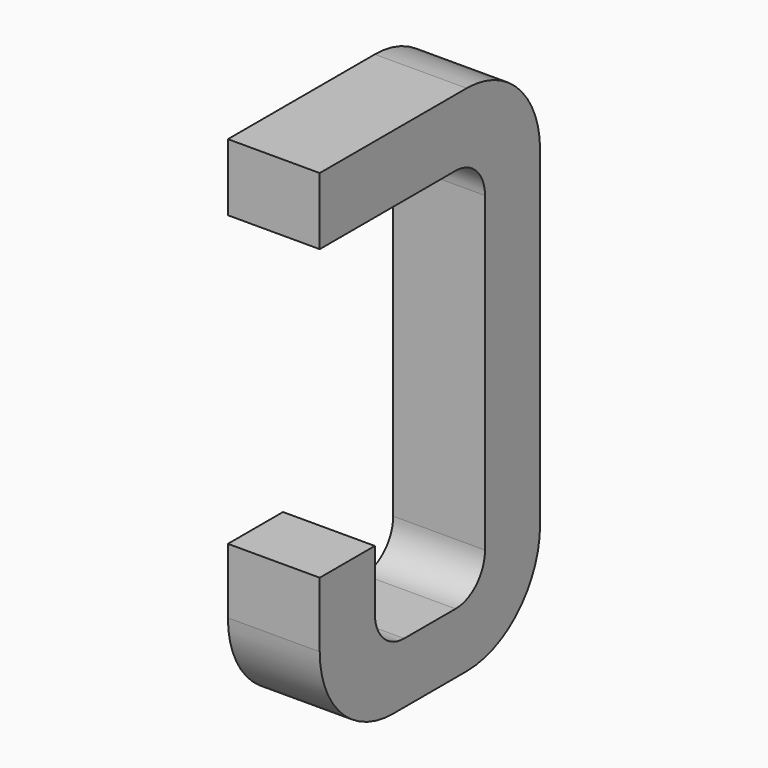
from build123d import *

# Parameters (mm, degrees)
BOX103_W     = 0.5
BOX103_H     = 1.5
BOX103_DEPTH = 2.795
FILLET289_R  = 0.5
FILLET284_R  = 0.5
FILLET288_R  = 0.5
BOX108_W     = 0.75
BOX108_H     = 2.1
BOX108_DEPTH = 1
FILLET291_R  = 0.2
FILLET292_R  = 0.2
FILLET286_R  = 0.2
FILLET290_R  = 0.2
BOX110_W     = 1
BOX110_H     = 1.575
BOX110_DEPTH = 3


with BuildPart() as part:
    # Box103 → Box103 (join)
    with BuildSketch(Plane(origin=(-0.25, 11.125, 0), x_dir=(1, 0, 0), z_dir=(0, 0, 1))):
        with Locations((0.25, 0.75)):
            Rectangle(BOX103_W, BOX103_H)
    extrude(amount=BOX103_DEPTH)

    # Fillet289
    fillet289_edges = [part.edges().sort_by_distance(p)[0] for p in [
        (0, 12.625, 0),
    ]]
    fillet(fillet289_edges, radius=FILLET289_R)

    # Fillet284
    fillet284_edges = [part.edges().sort_by_distance(p)[0] for p in [
        (0, 12.625, 2.795),
    ]]
    fillet(fillet284_edges, radius=FILLET284_R)

    # Fillet288
    fillet288_edges = [part.edges().sort_by_distance(p)[0] for p in [
        (0, 11.125, 0),
    ]]
    fillet(fillet288_edges, radius=FILLET288_R)

    # Box108 → Box108 (cut)
    with BuildSketch(Plane(origin=(-0.5, 11.5, 0.33), x_dir=(0, 1, 0), z_dir=(1, 0, 0))):
        with Locations((0.375, 1.05)):
            Rectangle(BOX108_W, BOX108_H)
    extrude(amount=BOX108_DEPTH, mode=Mode.SUBTRACT)

    # Fillet291
    fillet291_edges = [part.edges().sort_by_distance(p)[0] for p in [
        (0, 11.5, 0.33),
    ]]
    fillet(fillet291_edges, radius=FILLET291_R)

    # Fillet292
    fillet292_edges = [part.edges().sort_by_distance(p)[0] for p in [
        (0, 12.25, 0.33),
    ]]
    fillet(fillet292_edges, radius=FILLET292_R)

    # Fillet286
    fillet286_edges = [part.edges().sort_by_distance(p)[0] for p in [
        (0, 11.5, 2.43),
    ]]
    fillet(fillet286_edges, radius=FILLET286_R)

    # Fillet290
    fillet290_edges = [part.edges().sort_by_distance(p)[0] for p in [
        (0, 12.25, 2.43),
    ]]
    fillet(fillet290_edges, radius=FILLET290_R)

    # Box110 → Box110 (cut)
    with BuildSketch(Plane(origin=(-1, 11, 0.855), x_dir=(0, 1, 0), z_dir=(1, 0, 0))):
        with Locations((0.5, 0.7875)):
            Rectangle(BOX110_W, BOX110_H)
    extrude(amount=BOX110_DEPTH, mode=Mode.SUBTRACT)


with BuildPart() as part_1:
    # Body041 placement: moved
    add(part.part.moved(Location((2.54, 0, 0))))


solid = part_1.part
